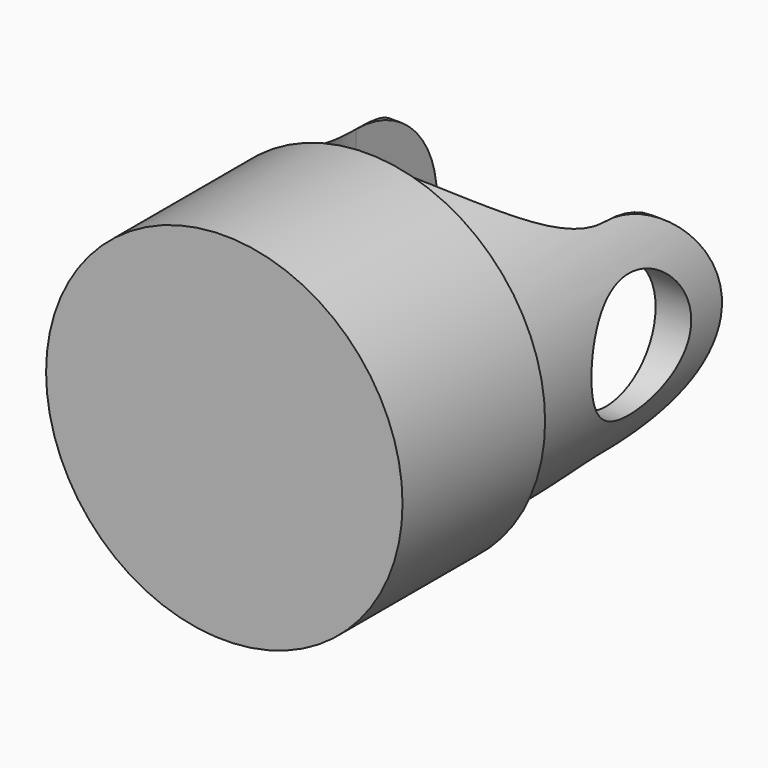
from build123d import *

# Parameters (mm, degrees)
F0_R     = 50
F1_DEPTH = 50
F2_R     = 45
F3_DEPTH = 80
F5_DEPTH = 100
F6_R     = 17.5
F7_DEPTH = 100


with BuildPart() as f1:
    # F0 (on Front) → F1 (new body)
    with BuildSketch(Plane.XZ):
        Circle(F0_R)
    extrude(amount=-F1_DEPTH)

    # F2 (on face) → F3 (join)
    with BuildSketch(Plane(origin=(0, 50, 0), x_dir=(-1, 0, 0), z_dir=(0, 1, 0))):
        Circle(F2_R)
    extrude(amount=F3_DEPTH)

    # F4 (on Top) → F5 (cut, symmetric)
    with BuildSketch(Plane.XY):
        with BuildLine():
            ThreePointArc((-35, 90), (0, 55), (35, 90))
            ThreePointArc((35, 90), (0, 125), (-35, 90))
        make_face()
        with BuildLine():
            ThreePointArc((-35, 90), (0, 125), (35, 90))
            Line((35, 90), (35, 130))
            Line((35, 130), (-35, 130))
            Line((-35, 130), (-35, 90))
        make_face()
    extrude(amount=F5_DEPTH, both=True, mode=Mode.SUBTRACT)

    # F6 (on face) → F7 (cut, symmetric)
    with BuildSketch(Plane.YZ.offset(-35)):
        with Locations((90, 0)):
            Circle(F6_R)
        with BuildLine():
            ThreePointArc((90, 28.284271), (118.284271, 0), (90, -28.284271))
            Line((90, -28.284271), (130, -28.284271))
            Line((130, -28.284271), (130, 28.284271))
            Line((130, 28.284271), (90, 28.284271))
        make_face()
    extrude(amount=F7_DEPTH, both=True, mode=Mode.SUBTRACT)


solid = f1.part
